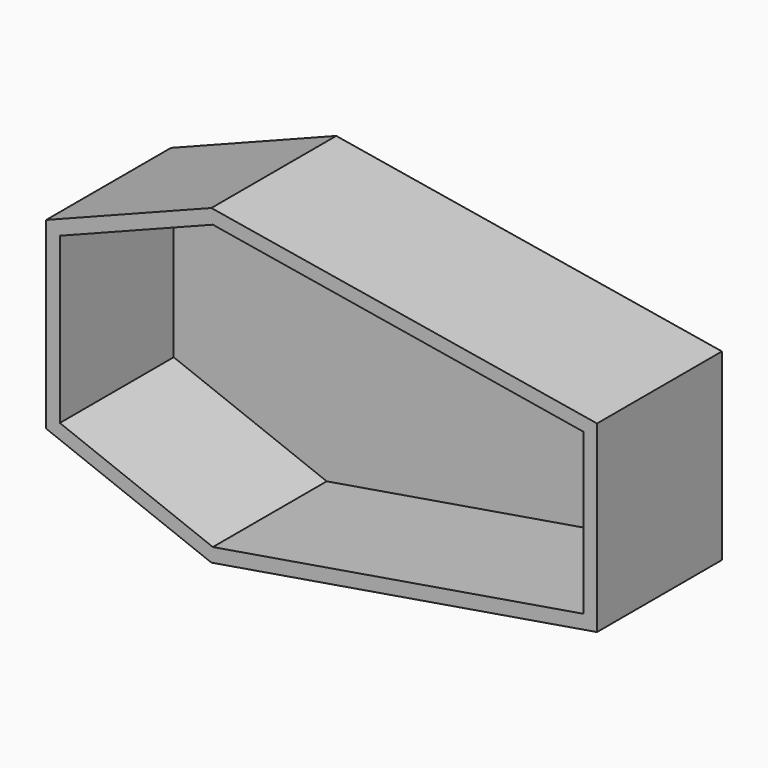
from build123d import *

# Parameters (mm, degrees)
F0_W     = 18
F0_H     = 20
F0_W_2   = 42
F1_DEPTH = 17
F2_T     = -1.5


with BuildPart() as f1:
    # F0 (on Front) → F1 (new body)
    with BuildSketch(Plane.XZ):
        with Locations((9, 10)):
            Rectangle(F0_W, F0_H)
        Polygon((18, 0), (0, 0), (18, -7), align=None)
        with Locations((39, 10)):
            Rectangle(F0_W_2, F0_H)
        Polygon((60, 0), (18, 0), (18, -7), align=None)
        Polygon((18, 27), (0, 20), (18, 20), align=None)
        Polygon((18, 27), (18, 20), (60, 20), align=None)
    extrude(amount=F1_DEPTH)

    # F2
    f2_openings = [f1.faces().sort_by_distance(p)[0] for p in [
        (28.962963, -17, 10),
    ]]
    offset(amount=F2_T, openings=f2_openings)


solid = f1.part
